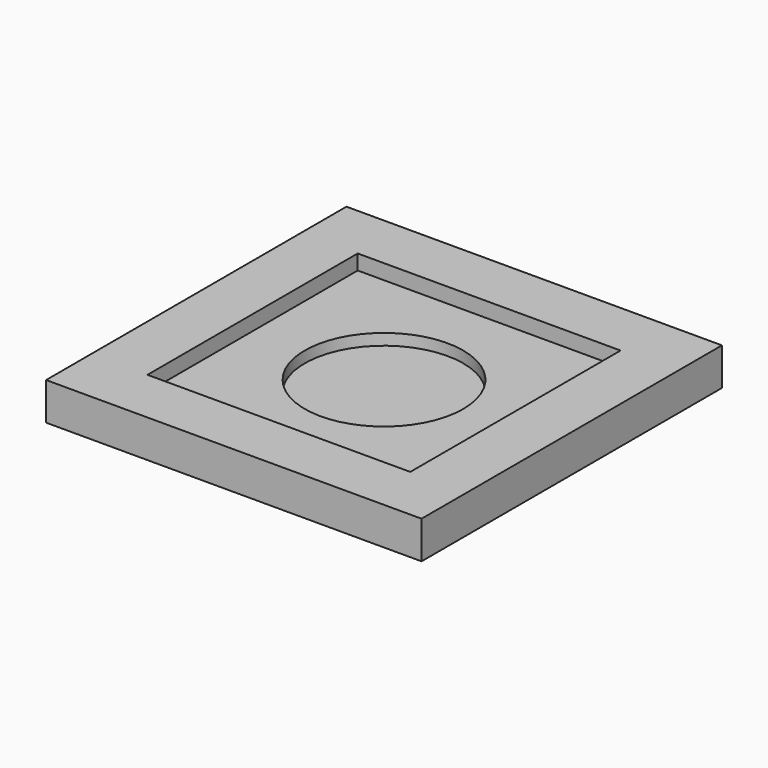
from build123d import *

# Parameters (mm, degrees)
F0_W     = 50
F0_H     = 50
F0_W_2   = 35
F0_H_2   = 35
F0_R     = 10.55
F1_DEPTH = 5
F2_W     = 35
F2_H     = 35
F2_R     = 10.55
F3_DEPTH = 2
F4_DEPTH = 3.5


with BuildPart() as f1:
    # F0 (on Top) → F1 (new body)
    with BuildSketch(Plane.XY):
        Rectangle(F0_W, F0_H)
        Rectangle(F0_W_2, F0_H_2, mode=Mode.SUBTRACT)
        Rectangle(F0_W_2, F0_H_2)
        Circle(F0_R, mode=Mode.SUBTRACT)
        Circle(F0_R)
    extrude(amount=F1_DEPTH)

    # F2 (on face) → F3 (cut)
    with BuildSketch(Plane.XY.offset(5)):
        Rectangle(F2_W, F2_H)
        Circle(F2_R, mode=Mode.SUBTRACT)
        Circle(F2_R)
    extrude(amount=-F3_DEPTH, mode=Mode.SUBTRACT)

    # F2 (on face) → F4 (cut)
    with BuildSketch(Plane.XY.offset(5)):
        Circle(F2_R)
    extrude(amount=-F4_DEPTH, mode=Mode.SUBTRACT)


solid = f1.part
